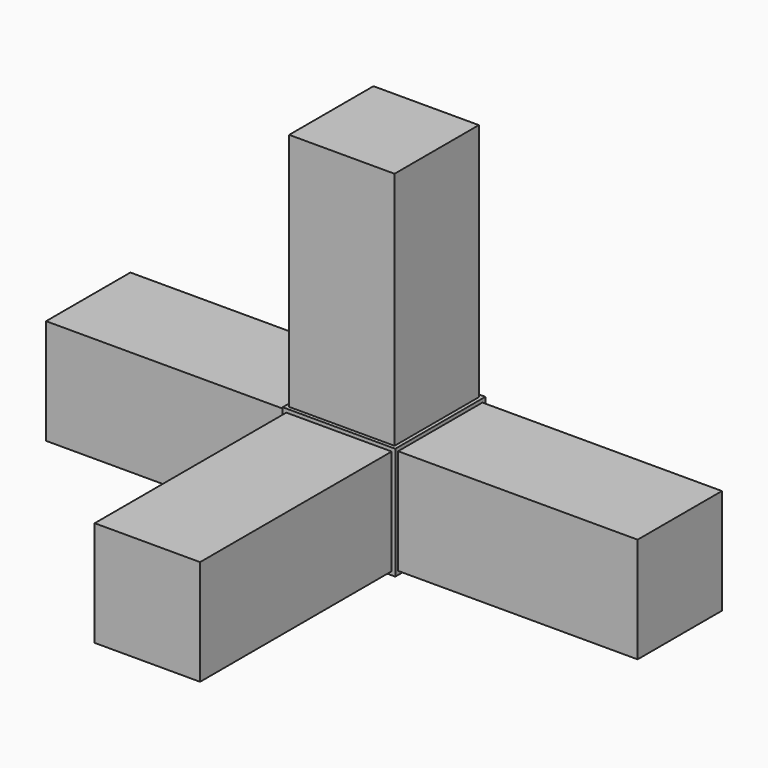
from build123d import *

# Parameters (mm, degrees)
F0_W     = 23.5
F0_H     = 23.5
F1_DEPTH = 11.75
F2_W     = 22
F2_H     = 22
F3_DEPTH = 50
F4_W     = 22
F4_H     = 22
F5_DEPTH = 50
F6_W     = 22
F6_H     = 22
F7_DEPTH = 50
F8_W     = 22
F8_H     = 22
F9_DEPTH = 50


with BuildPart() as f1:
    # F0 (on Front) → F1 (new body, symmetric)
    with BuildSketch(Plane.XZ):
        Rectangle(F0_W, F0_H)
    extrude(amount=F1_DEPTH, both=True)

    # F2 (on face) → F3 (join)
    with BuildSketch(Plane(origin=(-11.75, 0, 0), x_dir=(0, -1, 0), z_dir=(-1, 0, 0))):
        Rectangle(F2_W, F2_H)
    extrude(amount=F3_DEPTH)

    # F4 (on face) → F5 (join)
    with BuildSketch(Plane.XY.offset(11.75)):
        Rectangle(F4_W, F4_H)
    extrude(amount=F5_DEPTH)

    # F6 (on face) → F7 (join)
    with BuildSketch(Plane.XZ.offset(11.75)):
        Rectangle(F6_W, F6_H)
    extrude(amount=F7_DEPTH)

    # F8 (on face) → F9 (join)
    with BuildSketch(Plane.YZ.offset(11.75)):
        Rectangle(F8_W, F8_H)
    extrude(amount=F9_DEPTH)


solid = f1.part
